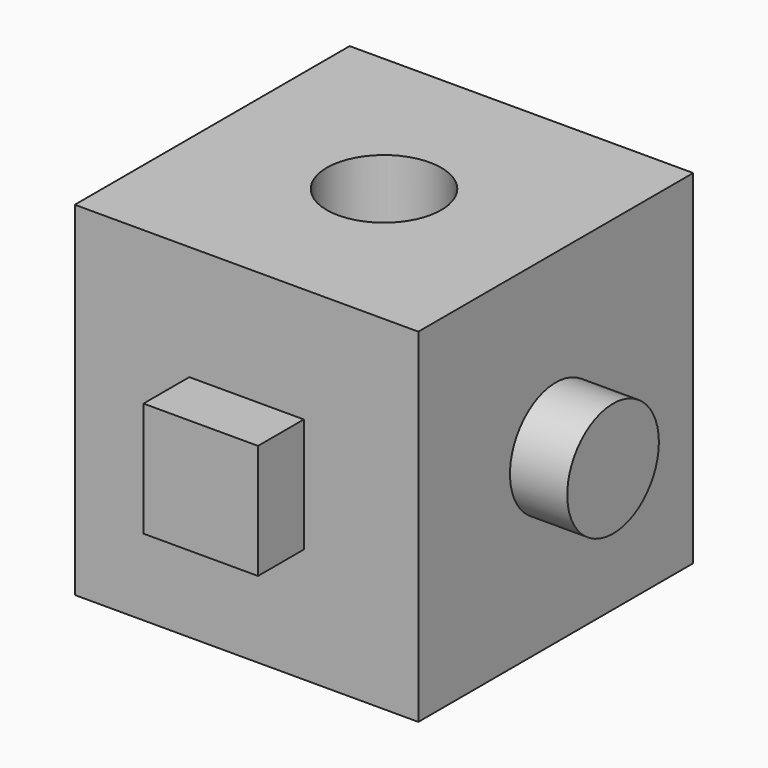
from build123d import *

# Parameters (mm, degrees)
F0_W      = 76.2
F0_H      = 76.2
F1_DEPTH  = 76.2
F2_W      = 25.4
F2_H      = 25.4
F3_DEPTH  = 12.7
F4_R      = 12.7
F5_DEPTH  = 12.7
F8_D      = 25.4
F10_DEPTH = 12.7


with BuildPart() as f1:
    # F0 (on Front) → F1 (new body)
    with BuildSketch(Plane.XZ):
        with Locations((-38.1, 38.1)):
            Rectangle(F0_W, F0_H)
    extrude(amount=F1_DEPTH)

    # F2 (on face) → F3 (join)
    with BuildSketch(Plane.XZ.offset(76.2)):
        with Locations((-38.1, 38.1)):
            Rectangle(F2_W, F2_H)
    extrude(amount=F3_DEPTH)

    # F4 (on face) → F5 (join)
    with BuildSketch(Plane.YZ):
        with Locations((-38.1, 38.1)):
            Circle(F4_R)
    extrude(amount=F5_DEPTH)

    # F8 (through all)
    with Locations(Plane.XY.offset(76.2)):
        with Locations((-38.1, -38.1)):
            Hole(F8_D / 2)

    # F9 (on face) → F10 (join)
    with BuildSketch(Plane(origin=(-76.2, 0, 0), x_dir=(0, -1, 0), z_dir=(-1, 0, 0))):
        Polygon((38.1, 50.8), (25.593038, 28.692628), (50.98917, 29.135919), align=None)
    extrude(amount=F10_DEPTH)


solid = f1.part
